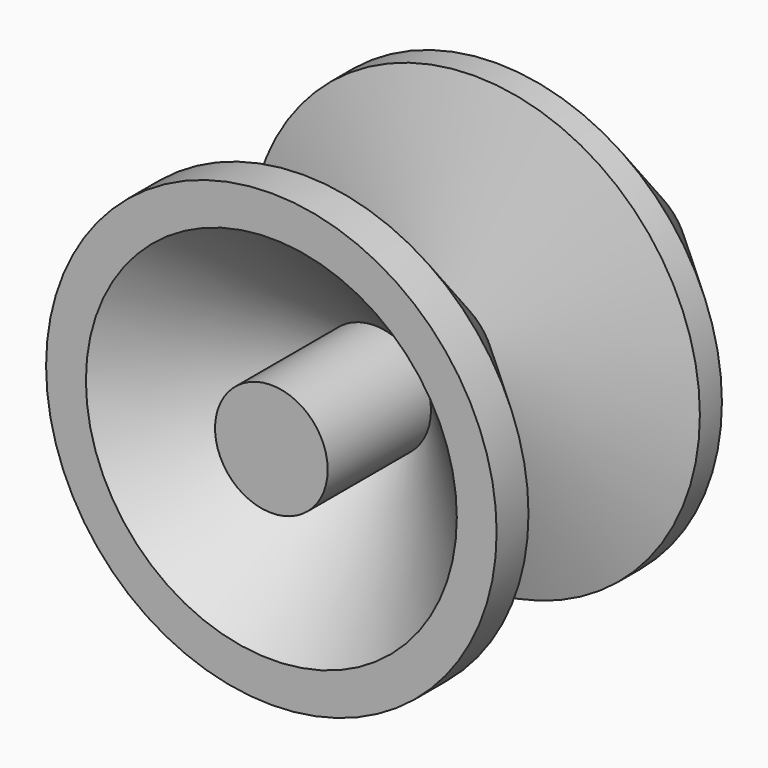
from build123d import *


with BuildPart() as f1:
    # F0 (on Top) → F1 (revolve)
    with BuildSketch(Plane.XY):
        Polygon((4, 0), (0, 0), (0, -32), (4, -32), (4, -22.828427), (13.171573, -32), (16, -32), (16, -29.171573), (4, -17.171573), (16, -13.956183), (16, -12), align=None)
        Polygon((4, -13.030468), (4, -5.656854), (9.815386, -11.47224), align=None, mode=Mode.SUBTRACT)
        Polygon((9.815386, -11.47224), (4, -5.656854), (4, -13.030468), align=None)
    revolve(axis=Axis((0, -16, 0), (0, -1, 0)))


solid = f1.part
